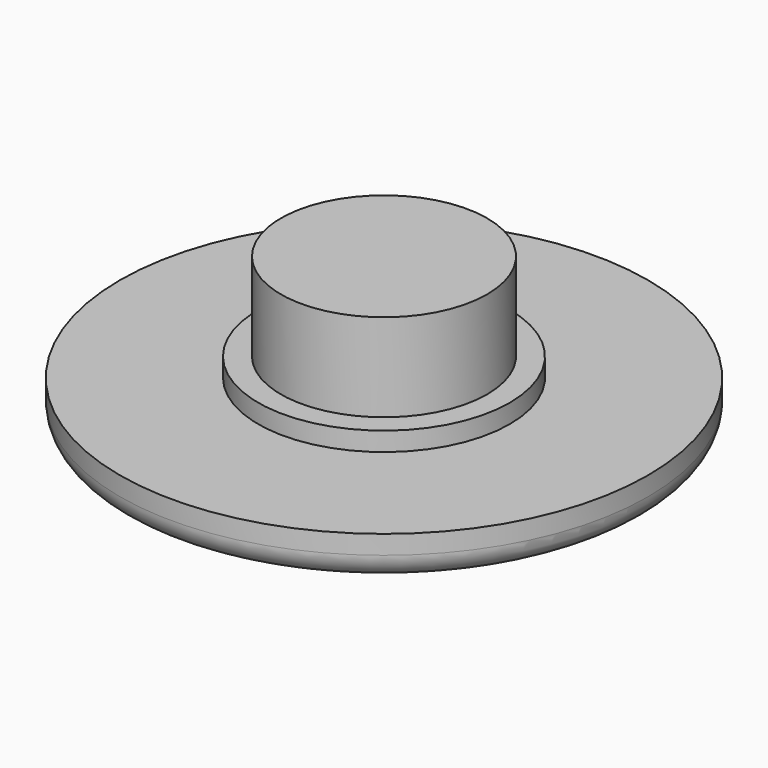
from build123d import *

# Parameters (mm, degrees)
F0_R     = 10.5
F0_R_2   = 5
F1_DEPTH = 1.75
F0_R_3   = 4.1
F2_DEPTH = 6
F3_DEPTH = 2.5
F5_R     = 1


with BuildPart() as f1:
    # F0 (on Top) → F1 (new body)
    with BuildSketch(Plane.XY):
        Circle(F0_R)
        Circle(F0_R_2, mode=Mode.SUBTRACT)
    extrude(amount=F1_DEPTH)


with BuildPart() as f2:
    # F0 (on Top) → F2 (new body)
    with BuildSketch(Plane.XY):
        Circle(F0_R_3)
    extrude(amount=F2_DEPTH)


with BuildPart() as f3:
    # F0 (on Top) → F3 (new body)
    with BuildSketch(Plane.XY):
        Circle(F0_R_2)
        Circle(F0_R_3, mode=Mode.SUBTRACT)
    extrude(amount=F3_DEPTH)


with BuildPart() as f1_1:
    add(f1.part)

    # F4: union F3, F2
    add(f3.part)
    add(f2.part)

    # F5
    f5_edges = [f1_1.edges().sort_by_distance(p)[0] for p in [
        (-10.5, 0, 0),
    ]]
    fillet(f5_edges, radius=F5_R)


solid = f1_1.part
